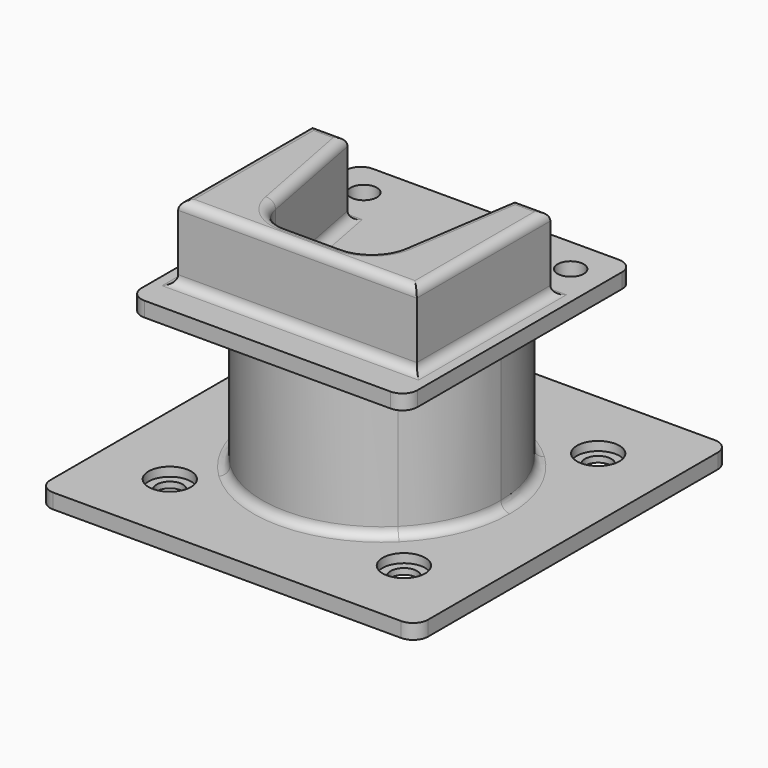
from build123d import *

# Parameters (mm, degrees)
F0_W           = 126.7115995288
F0_H           = 131.4364373684
F1_DEPTH       = 5
F3_D           = 8.8
F3_CBORE_D     = 14.25
F3_CBORE_DEPTH = 3
F2_R           = 35
F4_DEPTH       = 50
F5_W           = 92.5968140364
F5_H           = 95.7502674907
F5_R           = 40
F5_R_2         = 35
F7_DEPTH       = 5
F9_DEPTH       = 18
F10_DEPTH      = 25
F11_D          = 8.8
F11_DEPTH      = 20
F11_TIP        = 2.6437867237
F12_R          = 3
F13_R          = 5


with BuildPart() as f1:
    # F0 (on Top) → F1 (new body)
    with BuildSketch(Plane.XY):
        with Locations((0.4295296967, -8.5906162858)):
            Rectangle(F0_W, F0_H)
    extrude(amount=F1_DEPTH)

    # F3 (through all)
    with Locations(Plane.XY.offset(5)):
        with Locations((-38.8249626095, 32.1276023984), (39.6840220029, 32.1276023984), (39.6840220029, -49.30883497), (-38.8249626095, -49.30883497)):
            CounterBoreHole(F3_D / 2, F3_CBORE_D / 2, F3_CBORE_DEPTH)

    # F2 (on face) → F4 (join)
    with BuildSketch(Plane.XY.offset(5)):
        with BuildLine():
            ThreePointArc((27.7619395928, 19.7609679006), (0.3092398069, 30.9626422773), (-27.3133733823, 20.1867676043))
            ThreePointArc((-27.3133733823, 20.1867676043), (-39.9988046164, -8.7269225322), (-27.7619395928, -37.8332925789))
            ThreePointArc((-27.7619395928, -37.8332925789), (0.3092398069, -49.0349669555), (28.2038686691, -37.4006082547))
            ThreePointArc((28.2038686691, -37.4006082547), (36.9334181113, -24.3959353393), (40, -9.0361623391))
            ThreePointArc((40, -9.0361623391), (36.8135680403, 6.6086837178), (27.7619395928, 19.7609679006))
        make_face()
        with Locations((0, -9.0361623391)):
            Circle(F2_R, mode=Mode.SUBTRACT)
    extrude(amount=F4_DEPTH)

    # F5 (on face) → F7 (join)
    with BuildSketch(Plane.XY.offset(55)):
        with Locations((0, -9.0361623391)):
            Rectangle(F5_W, F5_H)
        with Locations((0, -9.0361623391)):
            Circle(F5_R, mode=Mode.SUBTRACT)
        with Locations((0, -9.0361623391)):
            Circle(F5_R)
        with Locations((0, -9.0361623391)):
            Circle(F5_R_2, mode=Mode.SUBTRACT)
        with Locations((0, -9.0361623391)):
            Circle(F5_R_2)
    extrude(amount=F7_DEPTH)

    # F8 (on face) → F9 (join)
    with BuildSketch(Plane.XY.offset(60)):
        with BuildLine():
            Line((39.9663936465, 11.7301873131), (27.9663936465, 11.7301873131))
            Line((27.9663936465, 11.7301873131), (22.0274506375, -27.6131587349))
            ThreePointArc((22.0274506375, -27.6131587349), (17.9883204303, -34.9185557428), (10.1618760514, -37.8220306709))
            Line((10.1618760514, -37.8220306709), (0, -37.8220306709))
            Line((0, -37.8220306709), (-8.5433648964, -37.8220306709))
            ThreePointArc((-8.5433648964, -37.8220306709), (-16.1873438252, -35.0724136975), (-20.328320386, -28.0836283605))
            Line((-20.328320386, -28.0836283605), (-27.9462388724, 11.6125699067))
            Line((-27.9462388724, 11.6125699067), (-39.9462388724, 11.6125699067))
            Line((-39.9462388724, 11.6125699067), (-39.9462388724, -44.3874300933))
            Line((-39.9462388724, -44.3874300933), (39.9663936465, -44.2698126869))
            Line((39.9663936465, -44.2698126869), (39.9663936465, 11.7301873131))
        make_face()
    extrude(amount=F9_DEPTH)

    # F8 (on face) → F10 (join)
    with BuildSketch(Plane.XY.offset(60)):
        with BuildLine():
            Line((39.9663936465, 11.7301873131), (27.9663936465, 11.7301873131))
            Line((27.9663936465, 11.7301873131), (22.0274506375, -27.6131587349))
            ThreePointArc((22.0274506375, -27.6131587349), (17.9883204303, -34.9185557428), (10.1618760514, -37.8220306709))
            Line((10.1618760514, -37.8220306709), (0, -37.8220306709))
            Line((0, -37.8220306709), (-8.5433648964, -37.8220306709))
            ThreePointArc((-8.5433648964, -37.8220306709), (-16.1873438252, -35.0724136975), (-20.328320386, -28.0836283605))
            Line((-20.328320386, -28.0836283605), (-27.9462388724, 11.6125699067))
            Line((-27.9462388724, 11.6125699067), (-39.9462388724, 11.6125699067))
            Line((-39.9462388724, 11.6125699067), (-39.9462388724, -44.3874300933))
            Line((-39.9462388724, -44.3874300933), (39.9663936465, -44.2698126869))
            Line((39.9663936465, -44.2698126869), (39.9663936465, 11.7301873131))
        make_face()
    extrude(amount=F10_DEPTH)

    # F11
    with Locations(Plane.XY.offset(60)):
        with Locations((-34.6936167909, 26.8389714062), (34.6936167909, 26.8389714062)):
            Hole(F11_D / 2, depth=F11_DEPTH)
            with Locations((0, 0, -(F11_DEPTH + F11_TIP / 2))):  # 118° drill point
                Cone(0, F11_D / 2, F11_TIP, mode=Mode.SUBTRACT)

    # F12
    f12_edges = [f1.edges().sort_by_distance(p)[0] for p in [
        (27.76194, 19.760968, 5),
        (0.010077, -44.328621, 60),
        (39.966394, -16.269813, 60),
        (33.966394, 11.730187, 60),
        (-33.946239, 11.61257, 60),
        (-39.946239, -16.38743, 60),
        (-24.13728, -8.235529, 60),
        (17.98832, -34.918556, 85),
        (39.966394, -16.269813, 85),
        (0.010077, -44.328621, 85),
        (-39.946239, -16.38743, 85),
        (-33.946239, 11.61257, 85),
        (33.966394, 11.730187, 85),
        (27.76194, 19.760968, 55),
    ]]
    fillet(f12_edges, radius=F12_R)

    # F13
    f13_edges = [f1.edges().sort_by_distance(p)[0] for p in [
        (63.785329, 57.127602, 2.5),
        (-62.92627, 57.127602, 2.5),
        (63.785329, -74.308835, 2.5),
        (46.298407, -56.911296, 57.5),
        (46.298407, 38.838971, 57.5),
        (-46.298407, 38.838971, 57.5),
        (-62.92627, -74.308835, 2.5),
        (-46.298407, -56.911296, 57.5),
    ]]
    fillet(f13_edges, radius=F13_R)


solid = f1.part
